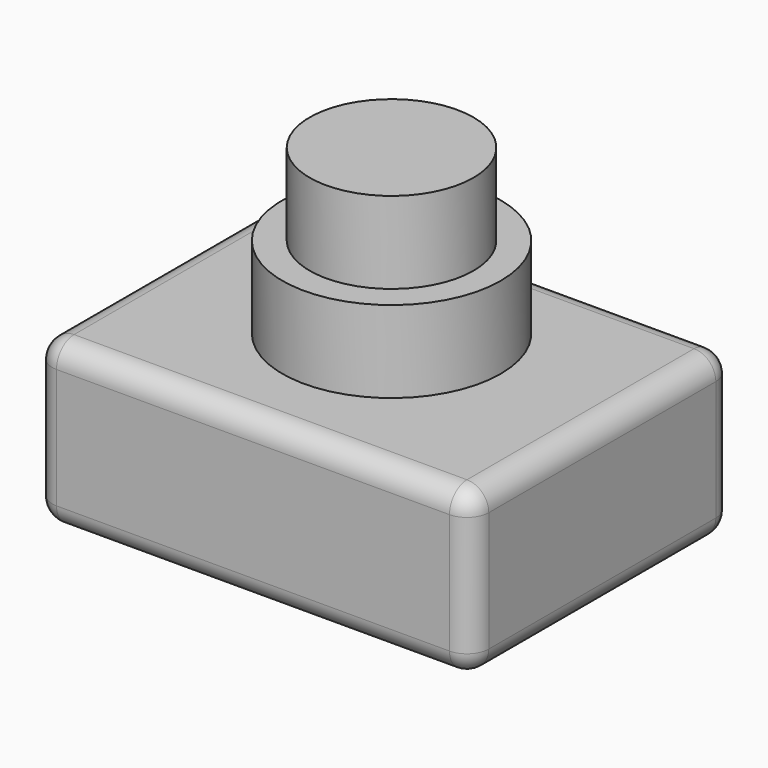
from build123d import *

# Parameters (mm, degrees)
F0_W     = 101.6
F0_H     = 76.2
F1_DEPTH = 38.1
F2_R     = 25.4
F3_DEPTH = 19.05
F4_R     = 19.05
F5_DEPTH = 19.05
F6_R     = 5.08


with BuildPart() as f1:
    # F0 (on Top) → F1 (new body)
    with BuildSketch(Plane.XY):
        with Locations((15.432196, -3.358119)):
            Rectangle(F0_W, F0_H)
    extrude(amount=F1_DEPTH)

    # F2 (on face) → F3 (join)
    with BuildSketch(Plane.XY.offset(38.1)):
        with Locations((14.508507, 0)):
            Circle(F2_R)
    extrude(amount=F3_DEPTH)

    # F4 (on face) → F5 (join)
    with BuildSketch(Plane.XY.offset(57.15)):
        with Locations((14.508507, 0)):
            Circle(F4_R)
    extrude(amount=F5_DEPTH)

    # F6
    f6_edges = [f1.edges().sort_by_distance(p)[0] for p in [
        (15.432196, 34.741881, 38.1),
        (66.232196, 34.741881, 19.05),
        (15.432196, 34.741881, 0),
        (-35.367804, 34.741881, 19.05),
        (66.232196, -3.358119, 38.1),
        (66.232196, -3.358119, 0),
        (66.232196, -41.458119, 19.05),
        (15.432196, -41.458119, 38.1),
        (-35.367804, -3.358119, 38.1),
        (15.432196, -41.458119, 0),
        (-35.367804, -3.358119, 0),
        (-35.367804, -41.458119, 19.05),
    ]]
    fillet(f6_edges, radius=F6_R)


solid = f1.part
